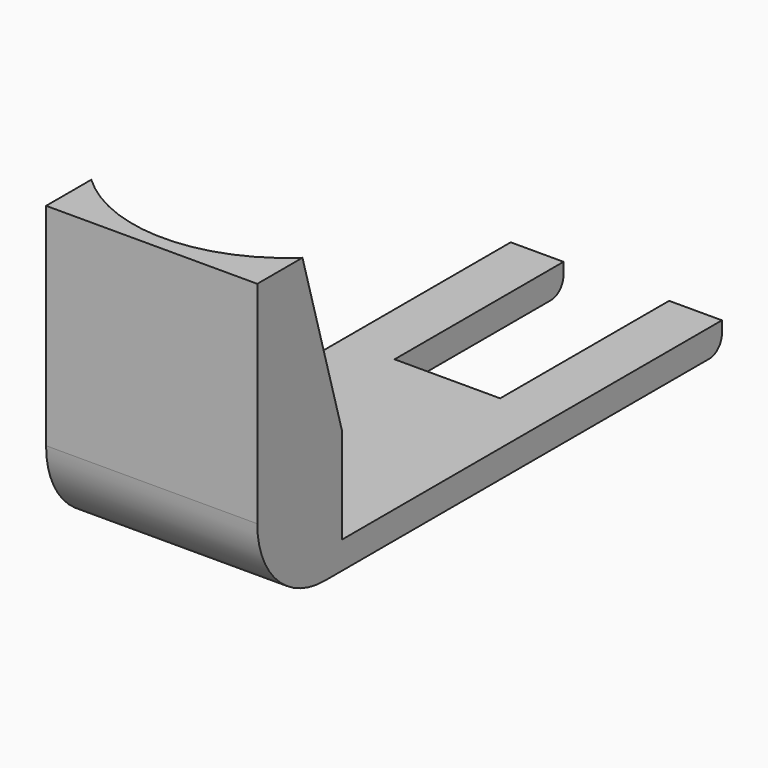
from build123d import *

# Parameters (mm, degrees)
BOX001_W            = 10
BOX001_H            = 25
BOX001_DEPTH        = 10
BOX_W               = 20
BOX_H               = 45
BOX_DEPTH           = 2.6
CYLINDER_R          = 15
CYLINDER_DEPTH      = 27
CYLINDER_ROLL_ANGLE = 15.99999
BOX002_W            = 20
BOX002_H            = 10
BOX002_DEPTH        = 28
FILLET_R            = 8
FILLET001_R         = 1.5


with BuildPart() as box02:
    # Box001 → Box001 (new body)
    with BuildSketch(Plane(origin=(5, 25, -3), x_dir=(1, 0, 0), z_dir=(0, 0, 1))):
        with Locations((5, 12.5)):
            Rectangle(BOX001_W, BOX001_H)
    extrude(amount=BOX001_DEPTH)


with BuildPart() as obj1:
    # Box → Box (new body)
    with BuildSketch(Plane.XY):
        with Locations((10, 22.5)):
            Rectangle(BOX_W, BOX_H)
    extrude(amount=BOX_DEPTH)

    # Cut: cut Box02
    add(box02.part, mode=Mode.SUBTRACT)


with BuildPart() as cylinder:
    # Cylinder → Cylinder (new body)
    with BuildSketch(Plane.XY):
        Circle(CYLINDER_R)
    extrude(amount=CYLINDER_DEPTH)


with BuildPart() as cylinder_1:
    # Cylinder roll: moved
    add(cylinder.part.rotate(Axis((0, 0, 0), (1, 0, 0)), CYLINDER_ROLL_ANGLE))


with BuildPart() as cylinder_2:
    # Cylinder placement: moved
    add(cylinder_1.part.moved(Location((10, 13, 7))))


with BuildPart() as fillet001:
    # Box002 → Box002 (new body)
    with BuildSketch(Plane(origin=(0, -10, 0), x_dir=(1, 0, 0), z_dir=(0, 0, 1))):
        with Locations((10, 5)):
            Rectangle(BOX002_W, BOX002_H)
    extrude(amount=BOX002_DEPTH)

    # Fillet
    fillet_edges = [fillet001.edges().sort_by_distance(p)[0] for p in [
        (10, -10, 0),
    ]]
    fillet(fillet_edges, radius=FILLET_R)

    # Cut001: cut Cylinder
    add(cylinder_2.part, mode=Mode.SUBTRACT)

    # Fusion: union obj1
    add(obj1.part)

    # Fillet001
    fillet001_edges = [fillet001.edges().sort_by_distance(p)[0] for p in [
        (17.5, 45, 0),
        (2.5, 45, 0),
    ]]
    fillet(fillet001_edges, radius=FILLET001_R)


solid = fillet001.part
